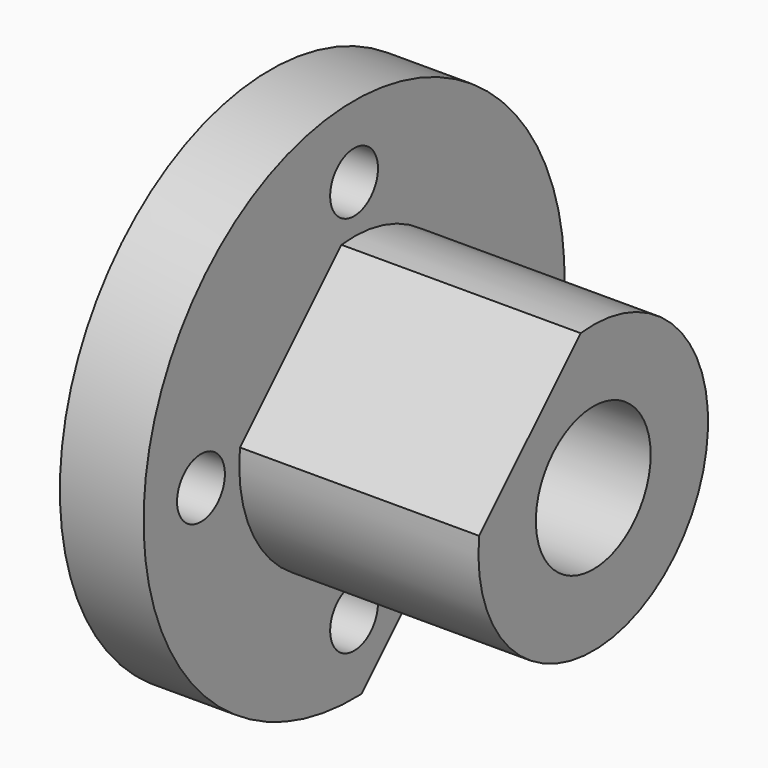
from build123d import *

# Parameters (mm, degrees)
SKETCH001_R     = 1.25
POCKET_DEPTH    = 5
POCKET001_DEPTH = 5
POCKET002_DEPTH = 10


with BuildPart() as part:
    # Sketch → Revolution (revolve)
    with BuildSketch(Plane.XY):
        Polygon((0, 3), (0, 6), (1.5, 6), (1.5, 11), (5, 11), (5, 6), (15, 6), (15, 3), align=None)
    revolve(axis=Axis((0, 0, 0), (1, 0, 0)))

    # Sketch001 (on Face3 of Revolution) → Pocket (cut)
    with BuildSketch(Plane(origin=(1.5, 0, 0), x_dir=(0, -1, 0), z_dir=(-1, 0, 0))):
        with Locations((0, 8)):
            Circle(SKETCH001_R)
        with Locations((-8, 0)):
            Circle(SKETCH001_R)
        with Locations((8, 0)):
            Circle(SKETCH001_R)
        with Locations((0, -8)):
            Circle(SKETCH001_R)
    extrude(amount=-POCKET_DEPTH, mode=Mode.SUBTRACT)

    # Sketch004 (on Face5 of Pocket) → Pocket001 (cut)
    with BuildSketch(Plane(origin=(1.5, 0, 0), x_dir=(0, -1, 0), z_dir=(-1, 0, 0))):
        with BuildLine():
            Line((-10.993204, -0.386602), (-0.386602, -10.993204))
            ThreePointArc((-10.993204, -0.386602), (-7.778175, -7.778175), (-0.386602, -10.993204))
        make_face()
    extrude(amount=-POCKET001_DEPTH, mode=Mode.SUBTRACT)

    # Sketch005 (on Face4 of Pocket001) → Pocket002 (cut)
    with BuildSketch(Plane.YZ.offset(15)):
        with BuildLine():
            Line((-0.66026, 5.963561), (-5.963561, 0.66026))
            ThreePointArc((-0.66026, 5.963561), (-4.242641, 4.242641), (-5.963561, 0.66026))
        make_face()
    extrude(amount=-POCKET002_DEPTH, mode=Mode.SUBTRACT)


solid = part.part
